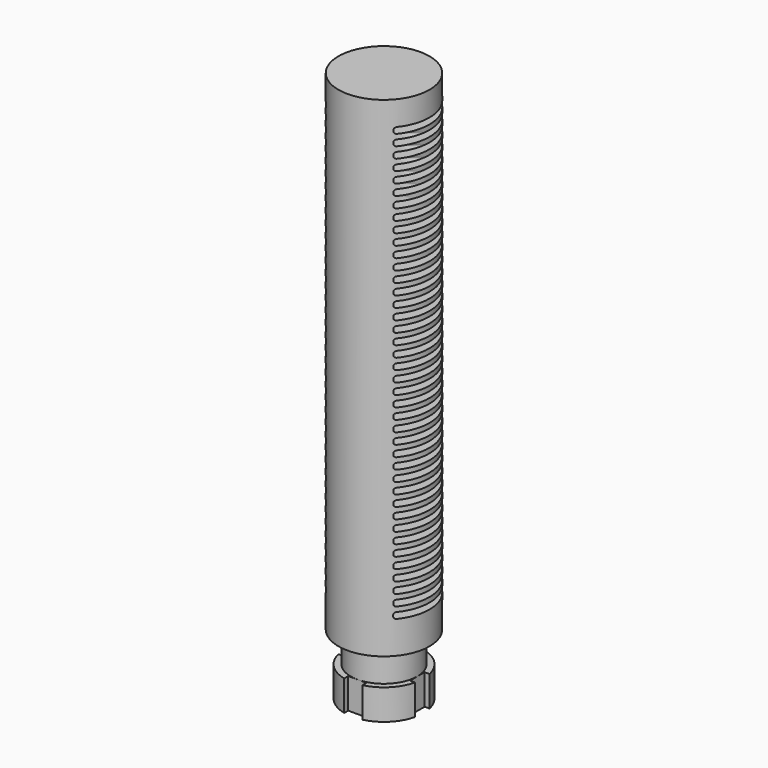
from build123d import *

# Parameters (mm, degrees)
F0_R           = 9.5
F1_DEPTH       = 115
F3_START       = 6.35
F2_R           = 9.5
F2_R_2         = 6.96
F3_DEPTH       = 6.35
F5_R           = 9.5
F5_R_2         = 8.23
F6_DEPTH       = 6.35
F8_W           = 3.81
F8_H           = 3.81
F9_DEPTH       = 6.35
F12_START      = 19.05
F11_R          = 6.96
F12_DEPTH      = 90.95
F14_DEPTH      = 12.7
F14_DEPTH_BACK = 12.7


with BuildPart() as f1:
    # F0 (on Top) → F1 (new body)
    with BuildSketch(Plane.XY):
        Circle(F0_R)
    extrude(amount=F1_DEPTH)


with BuildPart() as f3:
    # F2 (on Top) → F3 (new body)
    with BuildSketch(Plane.XY.offset(F3_START)):
        Circle(F2_R)
        Circle(F2_R_2, mode=Mode.SUBTRACT)
    extrude(amount=F3_DEPTH)


with BuildPart() as f1_1:
    add(f1.part)

    # F4: cut F3
    add(f3.part, mode=Mode.SUBTRACT)


with BuildPart() as f6:
    # F5 (on Top) → F6 (new body)
    with BuildSketch(Plane.XY):
        Circle(F5_R)
        Circle(F5_R_2, mode=Mode.SUBTRACT)
    extrude(amount=F6_DEPTH)


with BuildPart() as f1_2:
    add(f1_1.part)

    # F7: cut F6
    add(f6.part, mode=Mode.SUBTRACT)


with BuildPart() as f9:
    # F8 (on Top) → F9 (new body)
    with BuildSketch(Plane.XY):
        with Locations((-8.865, 0)):
            Rectangle(F8_W, F8_H)
    extrude(amount=F9_DEPTH)


with BuildPart() as f9b:
    # F8 (on Top) → F9, piece 2 (new body)
    with BuildSketch(Plane.XY):
        with Locations((0, 8.865)):
            Rectangle(F8_W, F8_H)
    extrude(amount=F9_DEPTH)


with BuildPart() as f9c:
    # F8 (on Top) → F9, piece 3 (new body)
    with BuildSketch(Plane.XY):
        with Locations((8.865, 0)):
            Rectangle(F8_W, F8_H)
    extrude(amount=F9_DEPTH)


with BuildPart() as f9d:
    # F8 (on Top) → F9, piece 4 (new body)
    with BuildSketch(Plane.XY):
        with Locations((0, -8.865)):
            Rectangle(F8_W, F8_H)
    extrude(amount=F9_DEPTH)


with BuildPart() as f1_3:
    add(f1_2.part)

    # F10: cut F9b, F9c, F9d, F9
    add(f9b.part, mode=Mode.SUBTRACT)
    add(f9c.part, mode=Mode.SUBTRACT)
    add(f9d.part, mode=Mode.SUBTRACT)
    add(f9.part, mode=Mode.SUBTRACT)

    # F11 (on Top) → F12 (cut)
    with BuildSketch(Plane.XY.offset(F12_START)):
        Circle(F11_R)
    extrude(amount=F12_DEPTH, mode=Mode.SUBTRACT)

    # F13 (on Right) → F14 (cut, two sides)
    with BuildSketch(Plane.YZ) as f14_sk:
        with BuildLine():
            ThreePointArc((6.35, 109.4564274168), (6.2213431242, 109.7670325914), (5.9107379496, 109.8956894672))
            Line((5.9107379496, 109.8956894672), (-5.9107379496, 109.8956894672))
            ThreePointArc((-5.9107379496, 109.8956894672), (-6.2213431242, 109.7670325914), (-6.35, 109.4564274168))
            Line((-6.35, 109.4564274168), (-6.35, 109.0649515175))
            ThreePointArc((-6.35, 109.0649515175), (-6.2213431242, 108.754346343), (-5.9107379496, 108.6256894672))
            Line((-5.9107379496, 108.6256894672), (5.9107379496, 108.6256894672))
            ThreePointArc((5.9107379496, 108.6256894672), (6.2213431242, 108.754346343), (6.35, 109.0649515175))
            Line((6.35, 109.0649515175), (6.35, 109.4564274168))
        make_face()
        with BuildLine():
            Line((6.3491587261, 106.7789516723), (6.3491587261, 107.1704275716))
            ThreePointArc((6.3491587261, 107.1704275716), (6.2205018502, 107.4810327462), (5.9098966757, 107.609689622))
            Line((5.9098966757, 107.609689622), (-5.9115792236, 107.609689622))
            ThreePointArc((-5.9115792236, 107.609689622), (-6.2221843981, 107.4810327462), (-6.3508412739, 107.1704275716))
            Line((-6.3508412739, 107.1704275716), (-6.3508412739, 106.7789516723))
            ThreePointArc((-6.3508412739, 106.7789516723), (-6.2221843981, 106.4683464978), (-5.9115792236, 106.339689622))
            Line((-5.9115792236, 106.339689622), (5.9098966757, 106.339689622))
            ThreePointArc((5.9098966757, 106.339689622), (6.2205018502, 106.4683464978), (6.3491587261, 106.7789516723))
        make_face()
        with BuildLine():
            Line((6.3483174521, 104.4929518271), (6.3483174521, 104.8844277264))
            ThreePointArc((6.3483174521, 104.8844277264), (6.2196605763, 105.195032901), (5.9090554018, 105.3236897768))
            Line((5.9090554018, 105.3236897768), (-5.9124204975, 105.3236897768))
            ThreePointArc((-5.9124204975, 105.3236897768), (-6.2230256721, 105.195032901), (-6.3516825479, 104.8844277264))
            Line((-6.3516825479, 104.8844277264), (-6.3516825479, 104.4929518271))
            ThreePointArc((-6.3516825479, 104.4929518271), (-6.2230256721, 104.1823466526), (-5.9124204975, 104.0536897768))
            Line((-5.9124204975, 104.0536897768), (5.9090554018, 104.0536897768))
            ThreePointArc((5.9090554018, 104.0536897768), (6.2196605763, 104.1823466526), (6.3483174521, 104.4929518271))
        make_face()
        with BuildLine():
            Line((6.3474761782, 102.2069519819), (6.3474761782, 102.5984278812))
            ThreePointArc((6.3474761782, 102.5984278812), (6.2188193023, 102.9090330558), (5.9082141278, 103.0376899316))
            Line((5.9082141278, 103.0376899316), (-5.9132617715, 103.0376899316))
            ThreePointArc((-5.9132617715, 103.0376899316), (-6.223866946, 102.9090330558), (-6.3525238218, 102.5984278812))
            Line((-6.3525238218, 102.5984278812), (-6.3525238218, 102.2069519819))
            ThreePointArc((-6.3525238218, 102.2069519819), (-6.223866946, 101.8963468074), (-5.9132617715, 101.7676899316))
            Line((-5.9132617715, 101.7676899316), (5.9082141278, 101.7676899316))
            ThreePointArc((5.9082141278, 101.7676899316), (6.2188193023, 101.8963468074), (6.3474761782, 102.2069519819))
        make_face()
        with BuildLine():
            Line((6.3466349042, 99.9209521367), (6.3466349042, 100.312428036))
            ThreePointArc((6.3466349042, 100.312428036), (6.2179780284, 100.6230332106), (5.9073728539, 100.7516900864))
            Line((5.9073728539, 100.7516900864), (-5.9141030454, 100.7516900864))
            ThreePointArc((-5.9141030454, 100.7516900864), (-6.22470822, 100.6230332106), (-6.3533650958, 100.312428036))
            Line((-6.3533650958, 100.312428036), (-6.3533650958, 99.9209521367))
            ThreePointArc((-6.3533650958, 99.9209521367), (-6.22470822, 99.6103469622), (-5.9141030454, 99.4816900864))
            Line((-5.9141030454, 99.4816900864), (5.9073728539, 99.4816900864))
            ThreePointArc((5.9073728539, 99.4816900864), (6.2179780284, 99.6103469622), (6.3466349042, 99.9209521367))
        make_face()
        with BuildLine():
            Line((6.3457936303, 97.6349522915), (6.3457936303, 98.0264281908))
            ThreePointArc((6.3457936303, 98.0264281908), (6.2171367544, 98.3370333654), (5.9065315799, 98.4656902412))
            Line((5.9065315799, 98.4656902412), (-5.9149443194, 98.4656902412))
            ThreePointArc((-5.9149443194, 98.4656902412), (-6.2255494939, 98.3370333654), (-6.3542063697, 98.0264281908))
            Line((-6.3542063697, 98.0264281908), (-6.3542063697, 97.6349522915))
            ThreePointArc((-6.3542063697, 97.6349522915), (-6.2255494939, 97.324347117), (-5.9149443194, 97.1956902412))
            Line((-5.9149443194, 97.1956902412), (5.9065315799, 97.1956902412))
            ThreePointArc((5.9065315799, 97.1956902412), (6.2171367544, 97.324347117), (6.3457936303, 97.6349522915))
        make_face()
        with BuildLine():
            Line((6.3449523563, 95.3489524463), (6.3449523563, 95.7404283456))
            ThreePointArc((6.3449523563, 95.7404283456), (6.2162954805, 96.0510335202), (5.905690306, 96.179690396))
            Line((5.905690306, 96.179690396), (-5.9157855933, 96.179690396))
            ThreePointArc((-5.9157855933, 96.179690396), (-6.2263907679, 96.0510335202), (-6.3550476437, 95.7404283456))
            Line((-6.3550476437, 95.7404283456), (-6.3550476437, 95.3489524463))
            ThreePointArc((-6.3550476437, 95.3489524463), (-6.2263907679, 95.0383472718), (-5.9157855933, 94.909690396))
            Line((-5.9157855933, 94.909690396), (5.905690306, 94.909690396))
            ThreePointArc((5.905690306, 94.909690396), (6.2162954805, 95.0383472718), (6.3449523563, 95.3489524463))
        make_face()
        with BuildLine():
            Line((6.3441110824, 93.0629526011), (6.3441110824, 93.4544285004))
            ThreePointArc((6.3441110824, 93.4544285004), (6.2154542065, 93.765033675), (5.904849032, 93.8936905508))
            Line((5.904849032, 93.8936905508), (-5.9166268673, 93.8936905508))
            ThreePointArc((-5.9166268673, 93.8936905508), (-6.2272320418, 93.765033675), (-6.3558889176, 93.4544285004))
            Line((-6.3558889176, 93.4544285004), (-6.3558889176, 93.0629526011))
            ThreePointArc((-6.3558889176, 93.0629526011), (-6.2272320418, 92.7523474266), (-5.9166268673, 92.6236905508))
            Line((-5.9166268673, 92.6236905508), (5.904849032, 92.6236905508))
            ThreePointArc((5.904849032, 92.6236905508), (6.2154542065, 92.7523474266), (6.3441110824, 93.0629526011))
        make_face()
        with BuildLine():
            Line((6.3432698084, 90.7769527559), (6.3432698084, 91.1684286552))
            ThreePointArc((6.3432698084, 91.1684286552), (6.2146129326, 91.4790338298), (5.9040077581, 91.6076907056))
            Line((5.9040077581, 91.6076907056), (-5.9174681412, 91.6076907056))
            ThreePointArc((-5.9174681412, 91.6076907056), (-6.2280733158, 91.4790338298), (-6.3567301916, 91.1684286552))
            Line((-6.3567301916, 91.1684286552), (-6.3567301916, 90.7769527559))
            ThreePointArc((-6.3567301916, 90.7769527559), (-6.2280733158, 90.4663475814), (-5.9174681412, 90.3376907056))
            Line((-5.9174681412, 90.3376907056), (5.9040077581, 90.3376907056))
            ThreePointArc((5.9040077581, 90.3376907056), (6.2146129326, 90.4663475814), (6.3432698084, 90.7769527559))
        make_face()
        with BuildLine():
            Line((6.3424285345, 88.4909529107), (6.3424285345, 88.88242881))
            ThreePointArc((6.3424285345, 88.88242881), (6.2137716586, 89.1930339846), (5.9031664841, 89.3216908604))
            Line((5.9031664841, 89.3216908604), (-5.9183094152, 89.3216908604))
            ThreePointArc((-5.9183094152, 89.3216908604), (-6.2289145897, 89.1930339846), (-6.3575714655, 88.88242881))
            Line((-6.3575714655, 88.88242881), (-6.3575714655, 88.4909529107))
            ThreePointArc((-6.3575714655, 88.4909529107), (-6.2289145897, 88.1803477362), (-5.9183094152, 88.0516908604))
            Line((-5.9183094152, 88.0516908604), (5.9031664841, 88.0516908604))
            ThreePointArc((5.9031664841, 88.0516908604), (6.2137716586, 88.1803477362), (6.3424285345, 88.4909529107))
        make_face()
        with BuildLine():
            Line((6.3415872605, 86.2049530655), (6.3415872605, 86.5964289648))
            ThreePointArc((6.3415872605, 86.5964289648), (6.2129303847, 86.9070341394), (5.9023252102, 87.0356910152))
            Line((5.9023252102, 87.0356910152), (-5.9191506891, 87.0356910152))
            ThreePointArc((-5.9191506891, 87.0356910152), (-6.2297558637, 86.9070341394), (-6.3584127395, 86.5964289648))
            Line((-6.3584127395, 86.5964289648), (-6.3584127395, 86.2049530655))
            ThreePointArc((-6.3584127395, 86.2049530655), (-6.2297558637, 85.894347891), (-5.9191506891, 85.7656910152))
            Line((-5.9191506891, 85.7656910152), (5.9023252102, 85.7656910152))
            ThreePointArc((5.9023252102, 85.7656910152), (6.2129303847, 85.894347891), (6.3415872605, 86.2049530655))
        make_face()
        with BuildLine():
            Line((6.3407459866, 83.9189532203), (6.3407459866, 84.3104291196))
            ThreePointArc((6.3407459866, 84.3104291196), (6.2120891107, 84.6210342942), (5.9014839362, 84.74969117))
            Line((5.9014839362, 84.74969117), (-5.9199919631, 84.74969117))
            ThreePointArc((-5.9199919631, 84.74969117), (-6.2305971376, 84.6210342942), (-6.3592540134, 84.3104291196))
            Line((-6.3592540134, 84.3104291196), (-6.3592540134, 83.9189532203))
            ThreePointArc((-6.3592540134, 83.9189532203), (-6.2305971376, 83.6083480458), (-5.9199919631, 83.47969117))
            Line((-5.9199919631, 83.47969117), (5.9014839362, 83.47969117))
            ThreePointArc((5.9014839362, 83.47969117), (6.2120891107, 83.6083480458), (6.3407459866, 83.9189532203))
        make_face()
        with BuildLine():
            Line((6.3399047126, 81.6329533751), (6.3399047126, 82.0244292744))
            ThreePointArc((6.3399047126, 82.0244292744), (6.2112478368, 82.335034449), (5.9006426623, 82.4636913248))
            Line((5.9006426623, 82.4636913248), (-5.920833237, 82.4636913248))
            ThreePointArc((-5.920833237, 82.4636913248), (-6.2314384116, 82.335034449), (-6.3600952874, 82.0244292744))
            Line((-6.3600952874, 82.0244292744), (-6.3600952874, 81.6329533751))
            ThreePointArc((-6.3600952874, 81.6329533751), (-6.2314384116, 81.3223482006), (-5.920833237, 81.1936913248))
            Line((-5.920833237, 81.1936913248), (5.9006426623, 81.1936913248))
            ThreePointArc((5.9006426623, 81.1936913248), (6.2112478368, 81.3223482006), (6.3399047126, 81.6329533751))
        make_face()
        with BuildLine():
            Line((6.3390634387, 79.3469535299), (6.3390634387, 79.7384294292))
            ThreePointArc((6.3390634387, 79.7384294292), (6.2104065628, 80.0490346038), (5.8998013883, 80.1776914796))
            Line((5.8998013883, 80.1776914796), (-5.921674511, 80.1776914796))
            ThreePointArc((-5.921674511, 80.1776914796), (-6.2322796855, 80.0490346038), (-6.3609365613, 79.7384294292))
            Line((-6.3609365613, 79.7384294292), (-6.3609365613, 79.3469535299))
            ThreePointArc((-6.3609365613, 79.3469535299), (-6.2322796855, 79.0363483554), (-5.921674511, 78.9076914796))
            Line((-5.921674511, 78.9076914796), (5.8998013883, 78.9076914796))
            ThreePointArc((5.8998013883, 78.9076914796), (6.2104065628, 79.0363483554), (6.3390634387, 79.3469535299))
        make_face()
        with BuildLine():
            Line((6.3382221647, 77.0609536847), (6.3382221647, 77.452429584))
            ThreePointArc((6.3382221647, 77.452429584), (6.2095652889, 77.7630347585), (5.8989601144, 77.8916916344))
            Line((5.8989601144, 77.8916916344), (-5.9225157849, 77.8916916344))
            ThreePointArc((-5.9225157849, 77.8916916344), (-6.2331209594, 77.7630347585), (-6.3617778353, 77.452429584))
            Line((-6.3617778353, 77.452429584), (-6.3617778353, 77.0609536847))
            ThreePointArc((-6.3617778353, 77.0609536847), (-6.2331209594, 76.7503485102), (-5.9225157849, 76.6216916344))
            Line((-5.9225157849, 76.6216916344), (5.8989601144, 76.6216916344))
            ThreePointArc((5.8989601144, 76.6216916344), (6.2095652889, 76.7503485102), (6.3382221647, 77.0609536847))
        make_face()
        with BuildLine():
            Line((6.3373808908, 74.7749538395), (6.3373808908, 75.1664297388))
            ThreePointArc((6.3373808908, 75.1664297388), (6.2087240149, 75.4770349133), (5.8981188404, 75.6056917892))
            Line((5.8981188404, 75.6056917892), (-5.9233570589, 75.6056917892))
            ThreePointArc((-5.9233570589, 75.6056917892), (-6.2339622334, 75.4770349133), (-6.3626191092, 75.1664297388))
            Line((-6.3626191092, 75.1664297388), (-6.3626191092, 74.7749538395))
            ThreePointArc((-6.3626191092, 74.7749538395), (-6.2339622334, 74.464348665), (-5.9233570589, 74.3356917892))
            Line((-5.9233570589, 74.3356917892), (5.8981188404, 74.3356917892))
            ThreePointArc((5.8981188404, 74.3356917892), (6.2087240149, 74.464348665), (6.3373808908, 74.7749538395))
        make_face()
        with BuildLine():
            Line((6.3365396168, 72.4889539943), (6.3365396168, 72.8804298936))
            ThreePointArc((6.3365396168, 72.8804298936), (6.207882741, 73.1910350681), (5.8972775665, 73.319691944))
            Line((5.8972775665, 73.319691944), (-5.9241983328, 73.319691944))
            ThreePointArc((-5.9241983328, 73.319691944), (-6.2348035073, 73.1910350681), (-6.3634603832, 72.8804298936))
            Line((-6.3634603832, 72.8804298936), (-6.3634603832, 72.4889539943))
            ThreePointArc((-6.3634603832, 72.4889539943), (-6.2348035073, 72.1783488198), (-5.9241983328, 72.049691944))
            Line((-5.9241983328, 72.049691944), (5.8972775665, 72.049691944))
            ThreePointArc((5.8972775665, 72.049691944), (6.207882741, 72.1783488198), (6.3365396168, 72.4889539943))
        make_face()
        with BuildLine():
            Line((6.3356983429, 70.2029541491), (6.3356983429, 70.5944300484))
            ThreePointArc((6.3356983429, 70.5944300484), (6.207041467, 70.9050352229), (5.8964362925, 71.0336920988))
            Line((5.8964362925, 71.0336920988), (-5.9250396068, 71.0336920988))
            ThreePointArc((-5.9250396068, 71.0336920988), (-6.2356447813, 70.9050352229), (-6.3643016571, 70.5944300484))
            Line((-6.3643016571, 70.5944300484), (-6.3643016571, 70.2029541491))
            ThreePointArc((-6.3643016571, 70.2029541491), (-6.2356447813, 69.8923489746), (-5.9250396068, 69.7636920988))
            Line((-5.9250396068, 69.7636920988), (5.8964362925, 69.7636920988))
            ThreePointArc((5.8964362925, 69.7636920988), (6.207041467, 69.8923489746), (6.3356983429, 70.2029541491))
        make_face()
        with BuildLine():
            Line((6.3348570689, 67.9169543039), (6.3348570689, 68.3084302032))
            ThreePointArc((6.3348570689, 68.3084302032), (6.2062001931, 68.6190353777), (5.8955950186, 68.7476922536))
            Line((5.8955950186, 68.7476922536), (-5.9258808807, 68.7476922536))
            ThreePointArc((-5.9258808807, 68.7476922536), (-6.2364860552, 68.6190353777), (-6.3651429311, 68.3084302032))
            Line((-6.3651429311, 68.3084302032), (-6.3651429311, 67.9169543039))
            ThreePointArc((-6.3651429311, 67.9169543039), (-6.2364860552, 67.6063491294), (-5.9258808807, 67.4776922536))
            Line((-5.9258808807, 67.4776922536), (5.8955950186, 67.4776922536))
            ThreePointArc((5.8955950186, 67.4776922536), (6.2062001931, 67.6063491294), (6.3348570689, 67.9169543039))
        make_face()
        with BuildLine():
            Line((6.334015795, 65.6309544587), (6.334015795, 66.022430358))
            ThreePointArc((6.334015795, 66.022430358), (6.2053589191, 66.3330355325), (5.8947537446, 66.4616924084))
            Line((5.8947537446, 66.4616924084), (-5.9267221547, 66.4616924084))
            ThreePointArc((-5.9267221547, 66.4616924084), (-6.2373273292, 66.3330355325), (-6.365984205, 66.022430358))
            Line((-6.365984205, 66.022430358), (-6.365984205, 65.6309544587))
            ThreePointArc((-6.365984205, 65.6309544587), (-6.2373273292, 65.3203492842), (-5.9267221547, 65.1916924084))
            Line((-5.9267221547, 65.1916924084), (5.8947537446, 65.1916924084))
            ThreePointArc((5.8947537446, 65.1916924084), (6.2053589191, 65.3203492842), (6.334015795, 65.6309544587))
        make_face()
        with BuildLine():
            Line((6.333174521, 63.3449546135), (6.333174521, 63.7364305128))
            ThreePointArc((6.333174521, 63.7364305128), (6.2045176452, 64.0470356873), (5.8939124707, 64.1756925632))
            Line((5.8939124707, 64.1756925632), (-5.9275634286, 64.1756925632))
            ThreePointArc((-5.9275634286, 64.1756925632), (-6.2381686031, 64.0470356873), (-6.366825479, 63.7364305128))
            Line((-6.366825479, 63.7364305128), (-6.366825479, 63.3449546135))
            ThreePointArc((-6.366825479, 63.3449546135), (-6.2381686031, 63.034349439), (-5.9275634286, 62.9056925632))
            Line((-5.9275634286, 62.9056925632), (5.8939124707, 62.9056925632))
            ThreePointArc((5.8939124707, 62.9056925632), (6.2045176452, 63.034349439), (6.333174521, 63.3449546135))
        make_face()
        with BuildLine():
            Line((6.3323332471, 61.0589547683), (6.3323332471, 61.4504306676))
            ThreePointArc((6.3323332471, 61.4504306676), (6.2036763713, 61.7610358421), (5.8930711967, 61.889692718))
            Line((5.8930711967, 61.889692718), (-5.9284047026, 61.889692718))
            ThreePointArc((-5.9284047026, 61.889692718), (-6.2390098771, 61.7610358421), (-6.3676667529, 61.4504306676))
            Line((-6.3676667529, 61.4504306676), (-6.3676667529, 61.0589547683))
            ThreePointArc((-6.3676667529, 61.0589547683), (-6.2390098771, 60.7483495938), (-5.9284047026, 60.619692718))
            Line((-5.9284047026, 60.619692718), (5.8930711967, 60.619692718))
            ThreePointArc((5.8930711967, 60.619692718), (6.2036763713, 60.7483495938), (6.3323332471, 61.0589547683))
        make_face()
        with BuildLine():
            Line((6.3314919731, 58.7729549231), (6.3314919731, 59.1644308224))
            ThreePointArc((6.3314919731, 59.1644308224), (6.2028350973, 59.4750359969), (5.8922299228, 59.6036928728))
            Line((5.8922299228, 59.6036928728), (-5.9292459765, 59.6036928728))
            ThreePointArc((-5.9292459765, 59.6036928728), (-6.239851151, 59.4750359969), (-6.3685080269, 59.1644308224))
            Line((-6.3685080269, 59.1644308224), (-6.3685080269, 58.7729549231))
            ThreePointArc((-6.3685080269, 58.7729549231), (-6.239851151, 58.4623497486), (-5.9292459765, 58.3336928728))
            Line((-5.9292459765, 58.3336928728), (5.8922299228, 58.3336928728))
            ThreePointArc((5.8922299228, 58.3336928728), (6.2028350973, 58.4623497486), (6.3314919731, 58.7729549231))
        make_face()
        with BuildLine():
            Line((6.3306506992, 56.4869550779), (6.3306506992, 56.8784309772))
            ThreePointArc((6.3306506992, 56.8784309772), (6.2019938234, 57.1890361517), (5.8913886488, 57.3176930276))
            Line((5.8913886488, 57.3176930276), (-5.9300872505, 57.3176930276))
            ThreePointArc((-5.9300872505, 57.3176930276), (-6.240692425, 57.1890361517), (-6.3693493008, 56.8784309772))
            Line((-6.3693493008, 56.8784309772), (-6.3693493008, 56.4869550779))
            ThreePointArc((-6.3693493008, 56.4869550779), (-6.240692425, 56.1763499034), (-5.9300872505, 56.0476930276))
            Line((-5.9300872505, 56.0476930276), (5.8913886488, 56.0476930276))
            ThreePointArc((5.8913886488, 56.0476930276), (6.2019938234, 56.1763499034), (6.3306506992, 56.4869550779))
        make_face()
        with BuildLine():
            Line((6.3298094252, 54.2009552327), (6.3298094252, 54.592431132))
            ThreePointArc((6.3298094252, 54.592431132), (6.2011525494, 54.9030363065), (5.8905473749, 55.0316931824))
            Line((5.8905473749, 55.0316931824), (-5.9309285244, 55.0316931824))
            ThreePointArc((-5.9309285244, 55.0316931824), (-6.2415336989, 54.9030363065), (-6.3701905748, 54.592431132))
            Line((-6.3701905748, 54.592431132), (-6.3701905748, 54.2009552327))
            ThreePointArc((-6.3701905748, 54.2009552327), (-6.2415336989, 53.8903500582), (-5.9309285244, 53.7616931824))
            Line((-5.9309285244, 53.7616931824), (5.8905473749, 53.7616931824))
            ThreePointArc((5.8905473749, 53.7616931824), (6.2011525494, 53.8903500582), (6.3298094252, 54.2009552327))
        make_face()
        with BuildLine():
            Line((6.3289681513, 51.9149553875), (6.3289681513, 52.3064312868))
            ThreePointArc((6.3289681513, 52.3064312868), (6.2003112755, 52.6170364613), (5.8897061009, 52.7456933372))
            Line((5.8897061009, 52.7456933372), (-5.9317697984, 52.7456933372))
            ThreePointArc((-5.9317697984, 52.7456933372), (-6.2423749729, 52.6170364613), (-6.3710318487, 52.3064312868))
            Line((-6.3710318487, 52.3064312868), (-6.3710318487, 51.9149553875))
            ThreePointArc((-6.3710318487, 51.9149553875), (-6.2423749729, 51.604350213), (-5.9317697984, 51.4756933372))
            Line((-5.9317697984, 51.4756933372), (5.8897061009, 51.4756933372))
            ThreePointArc((5.8897061009, 51.4756933372), (6.2003112755, 51.604350213), (6.3289681513, 51.9149553875))
        make_face()
        with BuildLine():
            Line((6.3281268773, 49.6289555423), (6.3281268773, 50.0204314416))
            ThreePointArc((6.3281268773, 50.0204314416), (6.1994700015, 50.3310366161), (5.888864827, 50.459693492))
            Line((5.888864827, 50.459693492), (-5.9326110723, 50.459693492))
            ThreePointArc((-5.9326110723, 50.459693492), (-6.2432162468, 50.3310366161), (-6.3718731227, 50.0204314416))
            Line((-6.3718731227, 50.0204314416), (-6.3718731227, 49.6289555423))
            ThreePointArc((-6.3718731227, 49.6289555423), (-6.2432162468, 49.3183503678), (-5.9326110723, 49.189693492))
            Line((-5.9326110723, 49.189693492), (5.888864827, 49.189693492))
            ThreePointArc((5.888864827, 49.189693492), (6.1994700015, 49.3183503678), (6.3281268773, 49.6289555423))
        make_face()
        with BuildLine():
            Line((6.3272856034, 47.3429556971), (6.3272856034, 47.7344315964))
            ThreePointArc((6.3272856034, 47.7344315964), (6.1986287276, 48.0450367709), (5.888023553, 48.1736936468))
            Line((5.888023553, 48.1736936468), (-5.9334523463, 48.1736936468))
            ThreePointArc((-5.9334523463, 48.1736936468), (-6.2440575208, 48.0450367709), (-6.3727143966, 47.7344315964))
            Line((-6.3727143966, 47.7344315964), (-6.3727143966, 47.3429556971))
            ThreePointArc((-6.3727143966, 47.3429556971), (-6.2440575208, 47.0323505226), (-5.9334523463, 46.9036936468))
            Line((-5.9334523463, 46.9036936468), (5.888023553, 46.9036936468))
            ThreePointArc((5.888023553, 46.9036936468), (6.1986287276, 47.0323505226), (6.3272856034, 47.3429556971))
        make_face()
        with BuildLine():
            Line((6.3264443294, 45.0569558519), (6.3264443294, 45.4484317512))
            ThreePointArc((6.3264443294, 45.4484317512), (6.1977874536, 45.7590369257), (5.8871822791, 45.8876938016))
            Line((5.8871822791, 45.8876938016), (-5.9342936202, 45.8876938016))
            ThreePointArc((-5.9342936202, 45.8876938016), (-6.2448987947, 45.7590369257), (-6.3735556706, 45.4484317512))
            Line((-6.3735556706, 45.4484317512), (-6.3735556706, 45.0569558519))
            ThreePointArc((-6.3735556706, 45.0569558519), (-6.2448987947, 44.7463506774), (-5.9342936202, 44.6176938016))
            Line((-5.9342936202, 44.6176938016), (5.8871822791, 44.6176938016))
            ThreePointArc((5.8871822791, 44.6176938016), (6.1977874536, 44.7463506774), (6.3264443294, 45.0569558519))
        make_face()
        with BuildLine():
            Line((6.3256030555, 42.7709560067), (6.3256030555, 43.162431906))
            ThreePointArc((6.3256030555, 43.162431906), (6.1969461797, 43.4730370805), (5.8863410051, 43.6016939564))
            Line((5.8863410051, 43.6016939564), (-5.9351348942, 43.6016939564))
            ThreePointArc((-5.9351348942, 43.6016939564), (-6.2457400687, 43.4730370805), (-6.3743969445, 43.162431906))
            Line((-6.3743969445, 43.162431906), (-6.3743969445, 42.7709560067))
            ThreePointArc((-6.3743969445, 42.7709560067), (-6.2457400687, 42.4603508322), (-5.9351348942, 42.3316939564))
            Line((-5.9351348942, 42.3316939564), (5.8863410051, 42.3316939564))
            ThreePointArc((5.8863410051, 42.3316939564), (6.1969461797, 42.4603508322), (6.3256030555, 42.7709560067))
        make_face()
        with BuildLine():
            Line((6.3247617815, 40.4849561615), (6.3247617815, 40.8764320608))
            ThreePointArc((6.3247617815, 40.8764320608), (6.1961049057, 41.1870372353), (5.8854997312, 41.3156941112))
            Line((5.8854997312, 41.3156941112), (-5.9359761681, 41.3156941112))
            ThreePointArc((-5.9359761681, 41.3156941112), (-6.2465813426, 41.1870372353), (-6.3752382185, 40.8764320608))
            Line((-6.3752382185, 40.8764320608), (-6.3752382185, 40.4849561615))
            ThreePointArc((-6.3752382185, 40.4849561615), (-6.2465813426, 40.174350987), (-5.9359761681, 40.0456941112))
            Line((-5.9359761681, 40.0456941112), (5.8854997312, 40.0456941112))
            ThreePointArc((5.8854997312, 40.0456941112), (6.1961049057, 40.174350987), (6.3247617815, 40.4849561615))
        make_face()
        with BuildLine():
            Line((6.3239205076, 38.1989563163), (6.3239205076, 38.5904322156))
            ThreePointArc((6.3239205076, 38.5904322156), (6.1952636318, 38.9010373901), (5.8846584572, 39.029694266))
            Line((5.8846584572, 39.029694266), (-5.936817442, 39.029694266))
            ThreePointArc((-5.936817442, 39.029694266), (-6.2474226166, 38.9010373901), (-6.3760794924, 38.5904322156))
            Line((-6.3760794924, 38.5904322156), (-6.3760794924, 38.1989563163))
            ThreePointArc((-6.3760794924, 38.1989563163), (-6.2474226166, 37.8883511418), (-5.936817442, 37.759694266))
            Line((-5.936817442, 37.759694266), (5.8846584572, 37.759694266))
            ThreePointArc((5.8846584572, 37.759694266), (6.1952636318, 37.8883511418), (6.3239205076, 38.1989563163))
        make_face()
        with BuildLine():
            Line((6.3230792337, 35.9129564711), (6.3230792337, 36.3044323704))
            ThreePointArc((6.3230792337, 36.3044323704), (6.1944223578, 36.6150375449), (5.8838171833, 36.7436944208))
            Line((5.8838171833, 36.7436944208), (-5.937658716, 36.7436944208))
            ThreePointArc((-5.937658716, 36.7436944208), (-6.2482638905, 36.6150375449), (-6.3769207663, 36.3044323704))
            Line((-6.3769207663, 36.3044323704), (-6.3769207663, 35.9129564711))
            ThreePointArc((-6.3769207663, 35.9129564711), (-6.2482638905, 35.6023512966), (-5.937658716, 35.4736944208))
            Line((-5.937658716, 35.4736944208), (5.8838171833, 35.4736944208))
            ThreePointArc((5.8838171833, 35.4736944208), (6.1944223578, 35.6023512966), (6.3230792337, 35.9129564711))
        make_face()
        with BuildLine():
            Line((6.3222379597, 33.6269566259), (6.3222379597, 34.0184325252))
            ThreePointArc((6.3222379597, 34.0184325252), (6.1935810839, 34.3290376997), (5.8829759093, 34.4576945756))
            Line((5.8829759093, 34.4576945756), (-5.9384999899, 34.4576945756))
            ThreePointArc((-5.9384999899, 34.4576945756), (-6.2491051645, 34.3290376997), (-6.3777620403, 34.0184325252))
            Line((-6.3777620403, 34.0184325252), (-6.3777620403, 33.6269566259))
            ThreePointArc((-6.3777620403, 33.6269566259), (-6.2491051645, 33.3163514514), (-5.9384999899, 33.1876945756))
            Line((-5.9384999899, 33.1876945756), (5.8829759093, 33.1876945756))
            ThreePointArc((5.8829759093, 33.1876945756), (6.1935810839, 33.3163514514), (6.3222379597, 33.6269566259))
        make_face()
        with BuildLine():
            Line((6.3213966858, 31.3409567807), (6.3213966858, 31.73243268))
            ThreePointArc((6.3213966858, 31.73243268), (6.1927398099, 32.0430378545), (5.8821346354, 32.1716947304))
            Line((5.8821346354, 32.1716947304), (-5.9393412639, 32.1716947304))
            ThreePointArc((-5.9393412639, 32.1716947304), (-6.2499464384, 32.0430378545), (-6.3786033142, 31.73243268))
            Line((-6.3786033142, 31.73243268), (-6.3786033142, 31.3409567807))
            ThreePointArc((-6.3786033142, 31.3409567807), (-6.2499464384, 31.0303516062), (-5.9393412639, 30.9016947304))
            Line((-5.9393412639, 30.9016947304), (5.8821346354, 30.9016947304))
            ThreePointArc((5.8821346354, 30.9016947304), (6.1927398099, 31.0303516062), (6.3213966858, 31.3409567807))
        make_face()
        with BuildLine():
            Line((6.3205554118, 29.0549569355), (6.3205554118, 29.4464328348))
            ThreePointArc((6.3205554118, 29.4464328348), (6.191898536, 29.7570380093), (5.8812933615, 29.8856948852))
            Line((5.8812933615, 29.8856948852), (-5.9401825378, 29.8856948852))
            ThreePointArc((-5.9401825378, 29.8856948852), (-6.2507877124, 29.7570380093), (-6.3794445882, 29.4464328348))
            Line((-6.3794445882, 29.4464328348), (-6.3794445882, 29.0549569355))
            ThreePointArc((-6.3794445882, 29.0549569355), (-6.2507877124, 28.744351761), (-5.9401825378, 28.6156948852))
            Line((-5.9401825378, 28.6156948852), (5.8812933615, 28.6156948852))
            ThreePointArc((5.8812933615, 28.6156948852), (6.191898536, 28.744351761), (6.3205554118, 29.0549569355))
        make_face()
        with BuildLine():
            Line((6.3197141379, 26.7689570903), (6.3197141379, 27.1604329896))
            ThreePointArc((6.3197141379, 27.1604329896), (6.191057262, 27.4710381641), (5.8804520875, 27.59969504))
            Line((5.8804520875, 27.59969504), (-5.9410238118, 27.59969504))
            ThreePointArc((-5.9410238118, 27.59969504), (-6.2516289863, 27.4710381641), (-6.3802858621, 27.1604329896))
            Line((-6.3802858621, 27.1604329896), (-6.3802858621, 26.7689570903))
            ThreePointArc((-6.3802858621, 26.7689570903), (-6.2516289863, 26.4583519158), (-5.9410238118, 26.32969504))
            Line((-5.9410238118, 26.32969504), (5.8804520875, 26.32969504))
            ThreePointArc((5.8804520875, 26.32969504), (6.191057262, 26.4583519158), (6.3197141379, 26.7689570903))
        make_face()
        with BuildLine():
            Line((6.3188728639, 24.4829572451), (6.3188728639, 24.8744331444))
            ThreePointArc((6.3188728639, 24.8744331444), (6.1902159881, 25.1850383189), (5.8796108136, 25.3136951948))
            Line((5.8796108136, 25.3136951948), (-5.9418650857, 25.3136951948))
            ThreePointArc((-5.9418650857, 25.3136951948), (-6.2524702603, 25.1850383189), (-6.3811271361, 24.8744331444))
            Line((-6.3811271361, 24.8744331444), (-6.3811271361, 24.4829572451))
            ThreePointArc((-6.3811271361, 24.4829572451), (-6.2524702603, 24.1723520706), (-5.9418650857, 24.0436951948))
            Line((-5.9418650857, 24.0436951948), (5.8796108136, 24.0436951948))
            ThreePointArc((5.8796108136, 24.0436951948), (6.1902159881, 24.1723520706), (6.3188728639, 24.4829572451))
        make_face()
        with BuildLine():
            Line((6.31803159, 22.1969573999), (6.31803159, 22.5884332992))
            ThreePointArc((6.31803159, 22.5884332992), (6.1893747141, 22.8990384737), (5.8787695396, 23.0276953496))
            Line((5.8787695396, 23.0276953496), (-5.9427063597, 23.0276953496))
            ThreePointArc((-5.9427063597, 23.0276953496), (-6.2533115342, 22.8990384737), (-6.38196841, 22.5884332992))
            Line((-6.38196841, 22.5884332992), (-6.38196841, 22.1969573999))
            ThreePointArc((-6.38196841, 22.1969573999), (-6.2533115342, 21.8863522254), (-5.9427063597, 21.7576953496))
            Line((-5.9427063597, 21.7576953496), (5.8787695396, 21.7576953496))
            ThreePointArc((5.8787695396, 21.7576953496), (6.1893747141, 21.8863522254), (6.31803159, 22.1969573999))
        make_face()
        with BuildLine():
            Line((6.317190316, 19.9109575547), (6.317190316, 20.302433454))
            ThreePointArc((6.317190316, 20.302433454), (6.1885334402, 20.6130386285), (5.8779282657, 20.7416955044))
            Line((5.8779282657, 20.7416955044), (-5.9435476336, 20.7416955044))
            ThreePointArc((-5.9435476336, 20.7416955044), (-6.2541528082, 20.6130386285), (-6.382809684, 20.302433454))
            Line((-6.382809684, 20.302433454), (-6.382809684, 19.9109575547))
            ThreePointArc((-6.382809684, 19.9109575547), (-6.2541528082, 19.6003523802), (-5.9435476336, 19.4716955044))
            Line((-5.9435476336, 19.4716955044), (5.8779282657, 19.4716955044))
            ThreePointArc((5.8779282657, 19.4716955044), (6.1885334402, 19.6003523802), (6.317190316, 19.9109575547))
        make_face()
    extrude(amount=F14_DEPTH, mode=Mode.SUBTRACT)
    extrude(f14_sk.sketch, amount=-F14_DEPTH_BACK, mode=Mode.SUBTRACT)


solid = f1_3.part
